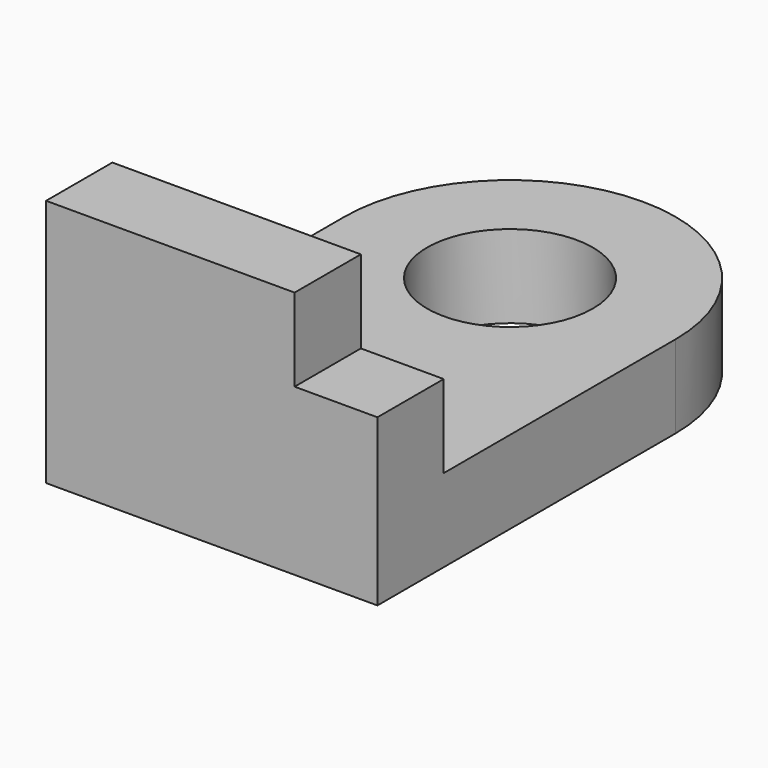
from build123d import *

# Parameters (mm, degrees)
F0_W     = 50.8
F0_H     = 38.1
F1_DEPTH = 12.7
F2_W     = 17.091405
F2_H     = 15.964834
F3_DEPTH = 12.701
F4_W     = 50.8
F4_H     = 44.45
F5_DEPTH = 12.7
F7_DEPTH = 12.7
F8_R     = 12.7
F9_DEPTH = 12.701


with BuildPart() as f1:
    # F0 (on Front) → F1 (new body)
    with BuildSketch(Plane.XZ):
        Rectangle(F0_W, F0_H)
    extrude(amount=F1_DEPTH)

    # F2 (on Front) → F3 (cut, through all)
    with BuildSketch(Plane.XZ):
        with Locations((21.245703, 14.332417)):
            Rectangle(F2_W, F2_H)
    extrude(amount=F3_DEPTH, mode=Mode.SUBTRACT)

    # F4 (on face) → F5 (join)
    with BuildSketch(Plane(origin=(0, 0, -19.05), x_dir=(1, 0, 0), z_dir=(0, 0, -1))):
        with Locations((0, -22.225)):
            Rectangle(F4_W, F4_H)
    extrude(amount=-F5_DEPTH)

    # F6 (on face) → F7 (join)
    with BuildSketch(Plane.XY.offset(-6.35)):
        with BuildLine():
            Line((-25.4, 44.45), (25.4, 44.45))
            ThreePointArc((25.4, 44.45), (0, 69.85), (-25.4, 44.45))
        make_face()
    extrude(amount=-F7_DEPTH)

    # F8 (on face) → F9 (cut, through all)
    with BuildSketch(Plane.XY.offset(-6.35)):
        with Locations((0, 44.45)):
            Circle(F8_R)
    extrude(amount=-F9_DEPTH, mode=Mode.SUBTRACT)


solid = f1.part
